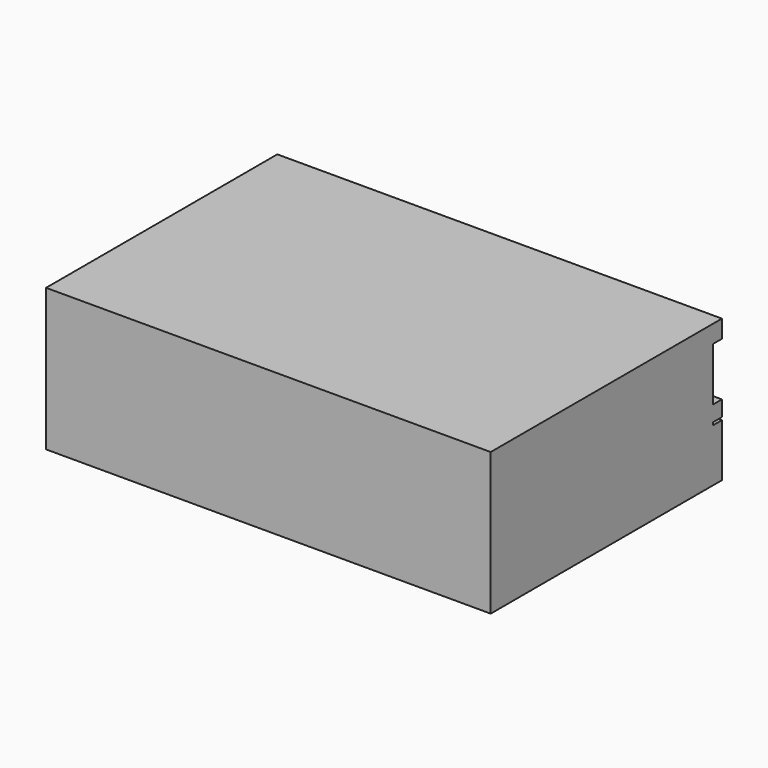
from build123d import *

# Parameters (mm, degrees)
F0_W     = 1000
F0_H     = 320
F1_DEPTH = 650
F2_W     = 1000
F2_H     = 120
F2_H_2   = 125
F3_DEPTH = 28
F4_DEPTH = 25
F5_W     = 1000
F5_H     = 6.141096
F6_DEPTH = 25


with BuildPart() as f1:
    # F0 (on Front) → F1 (new body)
    with BuildSketch(Plane.XZ):
        with Locations((500, 160)):
            Rectangle(F0_W, F0_H)
    extrude(amount=F1_DEPTH)

    # F2 (on face) → F3 (join)
    with BuildSketch(Plane(origin=(0, 0, 0), x_dir=(-1, 0, 0), z_dir=(0, 1, 0))):
        with Locations((-500, 220)):
            Rectangle(F2_W, F2_H)
        with Locations((-500, 62.5)):
            Rectangle(F2_W, F2_H_2)
    extrude(amount=-F3_DEPTH)

    # F2 (on face) → F4 (cut)
    with BuildSketch(Plane(origin=(0, 0, 0), x_dir=(-1, 0, 0), z_dir=(0, 1, 0))):
        with Locations((-500, 220)):
            Rectangle(F2_W, F2_H)
    extrude(amount=-F4_DEPTH, mode=Mode.SUBTRACT)

    # F5 (on face) → F6 (cut)
    with BuildSketch(Plane(origin=(0, 0, 0), x_dir=(-1, 0, 0), z_dir=(0, 1, 0))):
        with Locations((-500, 121.929452)):
            Rectangle(F5_W, F5_H)
    extrude(amount=-F6_DEPTH, mode=Mode.SUBTRACT)


solid = f1.part
